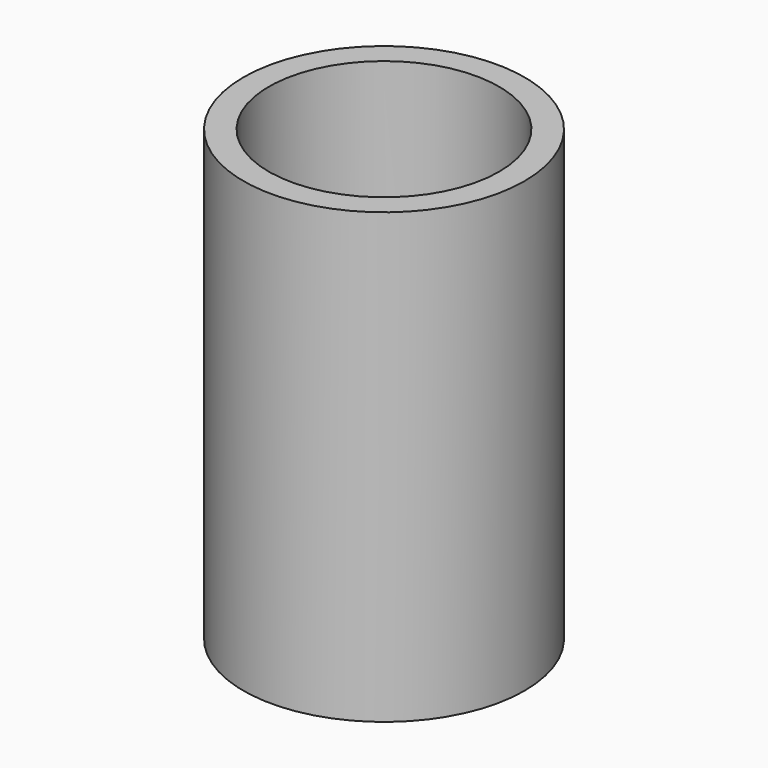
from build123d import *

# Parameters (mm, degrees)
F0_R     = 5.969
F0_R_2   = 4.8895
F1_DEPTH = 19.05


with BuildPart() as f1:
    # F0 (on Top) → F1 (new body)
    with BuildSketch(Plane.XY):
        Circle(F0_R)
        Circle(F0_R_2, mode=Mode.SUBTRACT)
    extrude(amount=-F1_DEPTH)


with BuildPart() as f2_1:
    # F2: copy of F1
    add(f1.part)


solid = f2_1.part
